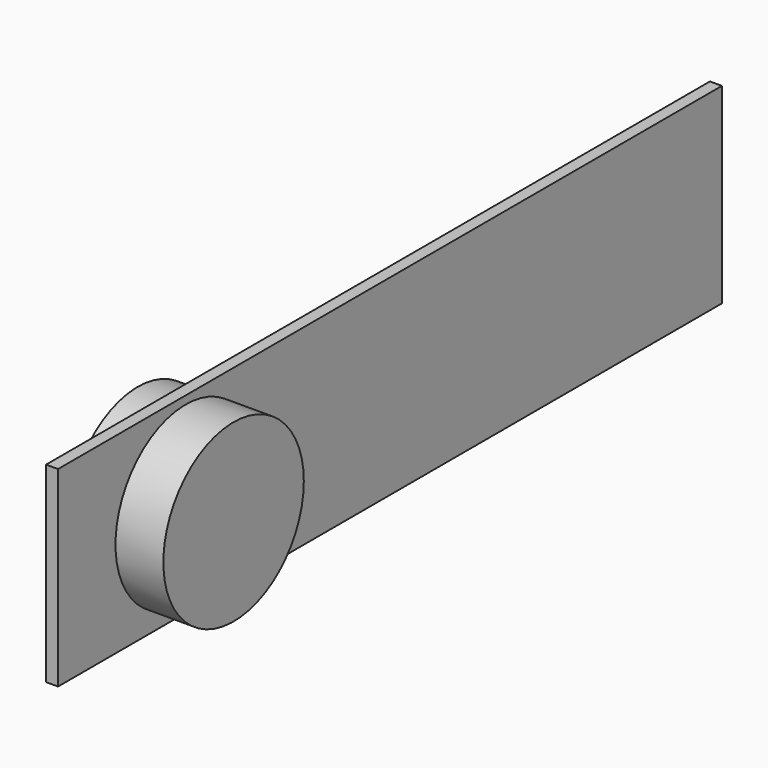
from build123d import *

# Parameters (mm, degrees)
F0_W          = 1320.8
F0_H          = 304.8
F1_DEPTH      = 19.05
F2_R          = 139.7
F3_DEPTH      = 76.2
F3_DEPTH_BACK = 76.2


with BuildPart() as f1:
    # F0 (on Right) → F1 (new body)
    with BuildSketch(Plane.YZ):
        with Locations((660.4, 152.4)):
            Rectangle(F0_W, F0_H)
    extrude(amount=F1_DEPTH)

    # F2 (on face) → F3 (join, two sides)
    with BuildSketch(Plane.YZ.offset(19.05)) as f3_sk:
        with Locations((254, 152.4)):
            Circle(F2_R)
    extrude(amount=F3_DEPTH)
    extrude(f3_sk.sketch, amount=-F3_DEPTH_BACK)


solid = f1.part
